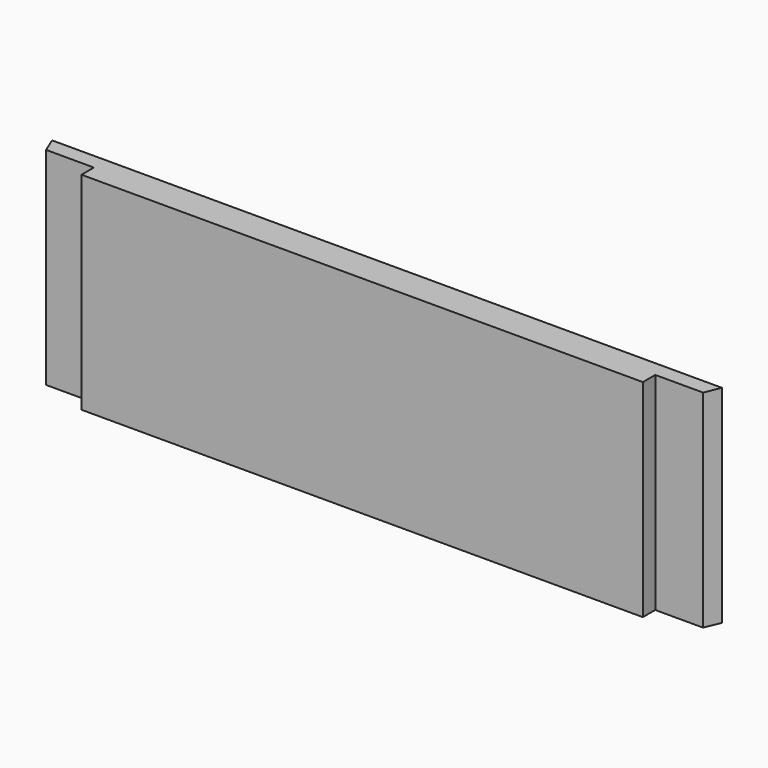
from build123d import *

# Parameters (mm, degrees)
F1_DEPTH = 63.5


with BuildPart() as f1:
    # F0 (on Top) → F1 (new body, symmetric)
    with BuildSketch(Plane.XY):
        Polygon((25.4, 0), (25.4, -9.525), (369.8875, -9.525), (369.8875, 0), (399.232884, 0), (403.178268, 9.525), (-7.890768, 9.525), (-3.945384, 0), align=None)
    extrude(amount=F1_DEPTH, both=True)


solid = f1.part
